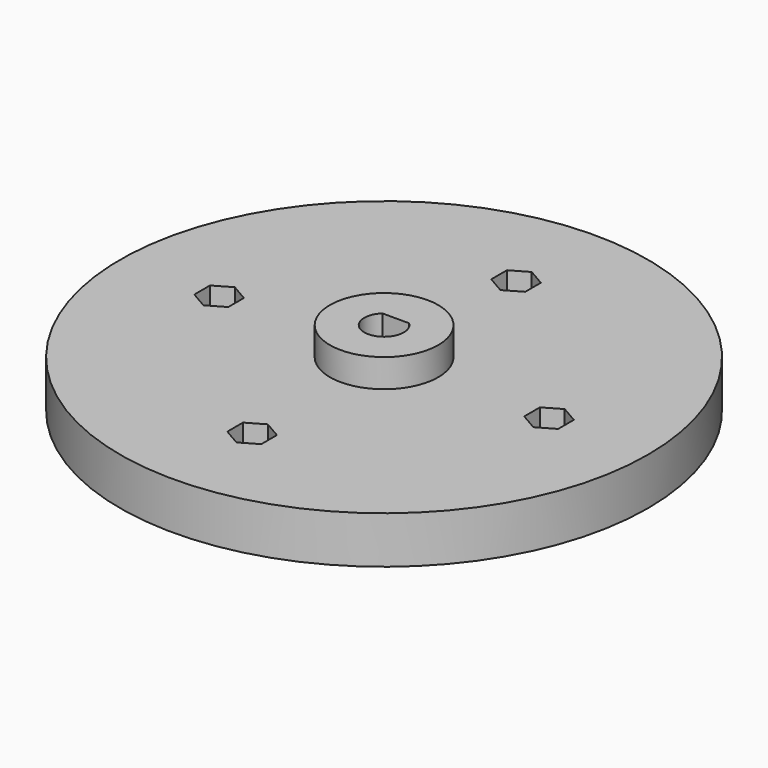
from build123d import *

# Parameters (mm, degrees)
F0_R     = 56
F1_DEPTH = 10
F2_R     = 11.5
F3_DEPTH = 6
F5_DEPTH = 16
F6_R     = 2.2
F7_DEPTH = 10
F9_DEPTH = 5


with BuildPart() as f1:
    # F0 (on Top) → F1 (new body)
    with BuildSketch(Plane.XY):
        Circle(F0_R)
    extrude(amount=F1_DEPTH)

    # F2 (on face) → F3 (join)
    with BuildSketch(Plane.XY.offset(10)):
        Circle(F2_R)
    extrude(amount=F3_DEPTH)

    # F4 (on face) → F5 (cut)
    with BuildSketch(Plane.XY.offset(16)):
        with BuildLine():
            Line((2.833725, 3.1), (-2.833725, 3.1))
            ThreePointArc((-2.833725, 3.1), (0, -4.2), (2.833725, 3.1))
        make_face()
    extrude(amount=-F5_DEPTH, mode=Mode.SUBTRACT)

    # F6 (on face) → F7 (cut)
    with BuildSketch(Plane.XY.offset(10)):
        with Locations((0, 35)):
            Circle(F6_R)
        with Locations((35, 0)):
            Circle(F6_R)
        with Locations((-35, 0)):
            Circle(F6_R)
        with Locations((0, -35)):
            Circle(F6_R)
    extrude(amount=-F7_DEPTH, mode=Mode.SUBTRACT)

    # F8 (on face) → F9 (cut)
    with BuildSketch(Plane.XY.offset(10)):
        Polygon((3.6, 32.921539), (3.6, 37.078461), (0, 39.156922), (-3.6, 37.078461), (-3.6, 32.921539), (0, 30.843078), align=None)
        Polygon((38.6, -2.078461), (38.6, 2.078461), (35, 4.156922), (31.4, 2.078461), (31.4, -2.078461), (35, -4.156922), align=None)
        Polygon((3.6, -37.078461), (3.6, -32.921539), (0, -30.843078), (-3.6, -32.921539), (-3.6, -37.078461), (0, -39.156922), align=None)
        Polygon((-31.4, -2.078461), (-31.4, 2.078461), (-35, 4.156922), (-38.6, 2.078461), (-38.6, -2.078461), (-35, -4.156922), align=None)
    extrude(amount=-F9_DEPTH, mode=Mode.SUBTRACT)


solid = f1.part
